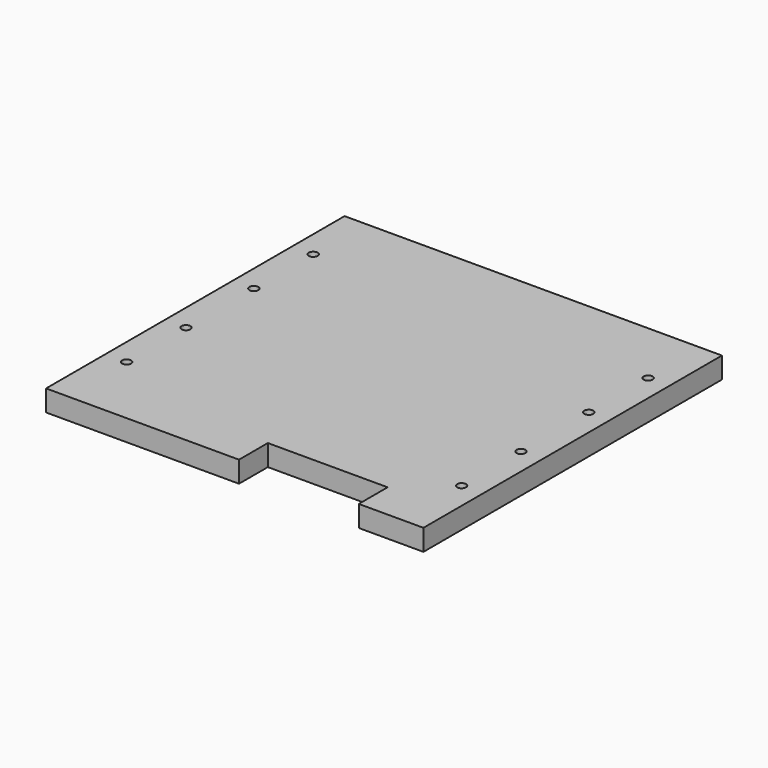
from build123d import *

# Parameters (mm, degrees)
F0_R     = 2.1
F1_DEPTH = 10


with BuildPart() as f1:
    # F0 (on Top) → F1 (new body)
    with BuildSketch(Plane.XY):
        Polygon((89, -88), (89, 88), (-89, 88), (-89, -88), (2, -88), (2, -71), (58.5, -71), (58.5, -88), align=None)
        with Locations((-79, -53)):
            Circle(F0_R, mode=Mode.SUBTRACT)
        with Locations((-79, -18)):
            Circle(F0_R, mode=Mode.SUBTRACT)
        with Locations((79, -53)):
            Circle(F0_R, mode=Mode.SUBTRACT)
        with Locations((79, -18)):
            Circle(F0_R, mode=Mode.SUBTRACT)
        with Locations((-79, 22)):
            Circle(F0_R, mode=Mode.SUBTRACT)
        with Locations((-79, 57)):
            Circle(F0_R, mode=Mode.SUBTRACT)
        with Locations((79, 22)):
            Circle(F0_R, mode=Mode.SUBTRACT)
        with Locations((79, 57)):
            Circle(F0_R, mode=Mode.SUBTRACT)
    extrude(amount=F1_DEPTH)


solid = f1.part
